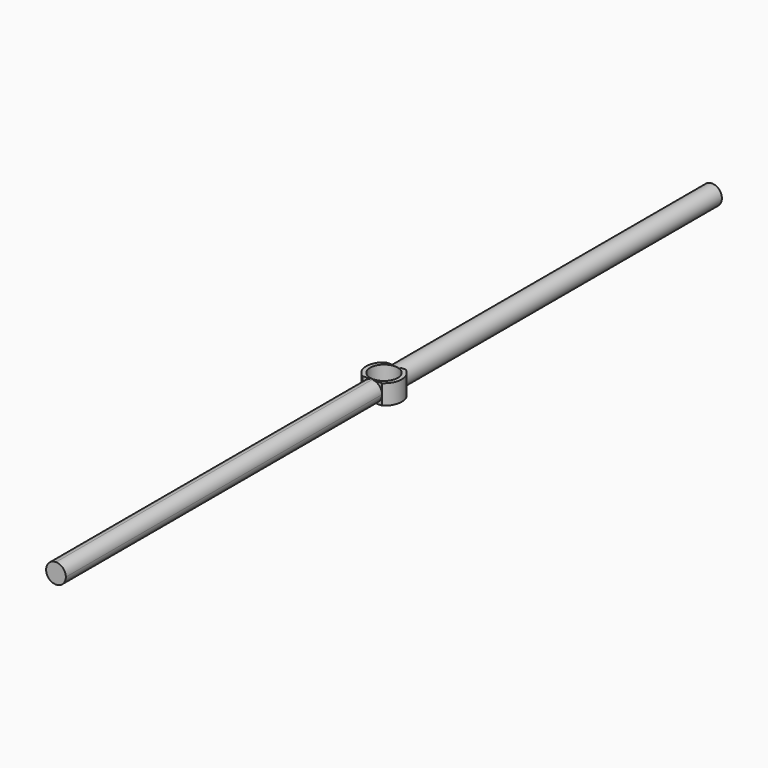
from build123d import *

# Parameters (mm, degrees)
F0_R     = 25
F1_DEPTH = 1000
F2_R     = 35
F3_DEPTH = 25
F5_DEPTH = 1000


with BuildPart() as f1:
    # F0 (on Front) → F1 (new body)
    with BuildSketch(Plane.XZ):
        Circle(F0_R)
    extrude(amount=-F1_DEPTH)

    # F2 (on Top) → F3 (join, symmetric)
    with BuildSketch(Plane.XY):
        with BuildLine():
            Line((25, 0), (-25, 0))
            ThreePointArc((-25, 0), (-45, -37.416574), (-25, -74.833148))
            Line((-25, -74.833148), (25, -74.833148))
            ThreePointArc((25, -74.833148), (45, -37.416574), (25, 0))
        make_face()
        with Locations((0, -37.416574)):
            Circle(F2_R, mode=Mode.SUBTRACT)
    extrude(amount=F3_DEPTH, both=True)

    # F4 (on face) → F5 (join)
    with BuildSketch(Plane.XZ.offset(74.833148)):
        with BuildLine():
            ThreePointArc((0, -25), (17.67767, -17.67767), (25, 0))
            ThreePointArc((25, 0), (17.67767, 17.67767), (0, 25))
            ThreePointArc((0, 25), (-17.67767, 17.67767), (-25, 0))
            ThreePointArc((-25, 0), (-17.67767, -17.677669), (0, -25))
        make_face()
    extrude(amount=F5_DEPTH)


solid = f1.part
